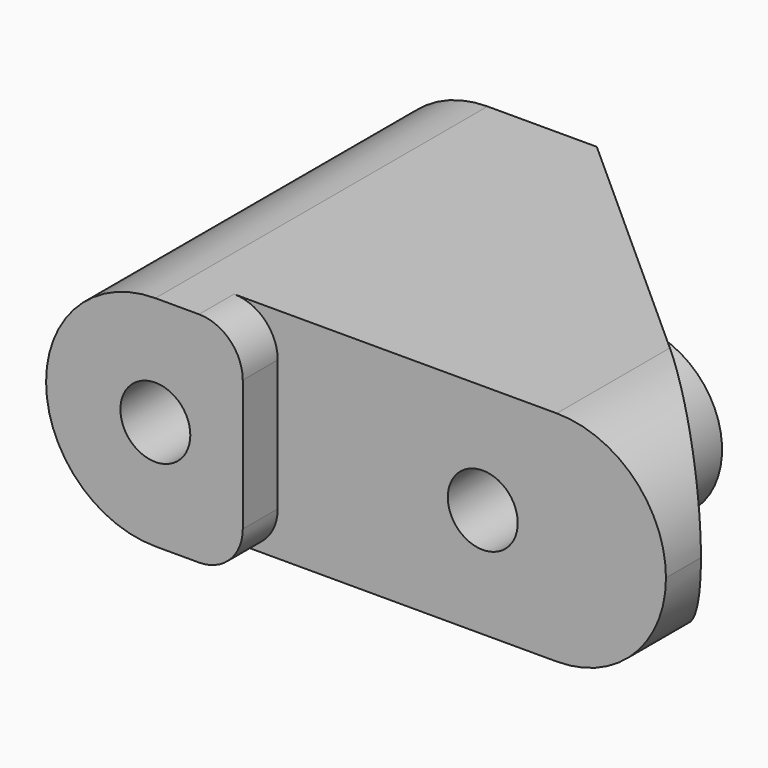
from build123d import *

# Parameters (mm, degrees)
PAD_DEPTH         = 10
SKETCH001_R       = 1.6
POCKET_DEPTH      = 19.001
SKETCH003_R       = 3.75
SKETCH003_R_2     = 1.6
PAD001_DEPTH      = 17
PAD001_FACE15_R   = 3.75
PAD001_FACE15_R_2 = 1.6
POCKET001_DEPTH   = 8
FILLET_R          = 4.999
FILLET_FACE4_W    = 2
FILLET_FACE4_H    = 10
POCKET002_DEPTH   = 1
FILLET001_R       = 2


with BuildPart() as part:
    # Sketch → Pad (new body)
    with BuildSketch(Plane.XY):
        Polygon((-19.5, -1), (-19.5, 18), (-9.5, 18), (7.264706, 3), (7.264706, 1), (-9.5, 1), (-9.5, -1), align=None)
    extrude(amount=PAD_DEPTH)

    # Sketch001 (on Face3 of Pad) → Pocket (cut, through all)
    with BuildSketch(Plane.XZ.offset(1)):
        with Locations((-14.5, 5)):
            Circle(SKETCH001_R)
        with Locations((-1.117647, 5)):
            Circle(SKETCH001_R)
    extrude(amount=-POCKET_DEPTH, mode=Mode.SUBTRACT)

    # Sketch003 (on Face1 of Pocket) → Pad001 (join)
    with BuildSketch(Plane.XZ.offset(-1)):
        with Locations((-1.117647, 5)):
            Circle(SKETCH003_R)
        with Locations((-1.117647, 5)):
            Circle(SKETCH003_R_2, mode=Mode.SUBTRACT)
    extrude(amount=-PAD001_DEPTH)

    # Pad001 Face15 → Pocket001 (cut)
    with BuildSketch(Plane(origin=(-1.117647, 18, 5), x_dir=(1, 0, 0), z_dir=(0, 1, 0))):
        Circle(PAD001_FACE15_R)
        Circle(PAD001_FACE15_R_2, mode=Mode.SUBTRACT)
    extrude(amount=-POCKET001_DEPTH, mode=Mode.SUBTRACT)

    # Fillet
    fillet_edges = [part.edges().sort_by_distance(p)[0] for p in [
        (-19.5, 8.5, 10),
        (-19.5, 8.5, 0),
        (7.264706, 2, 10),
        (7.264706, 2, 0),
    ]]
    fillet(fillet_edges, radius=FILLET_R)

    # Fillet Face4 → Pocket002 (cut)
    with BuildSketch(Plane(origin=(-9.5, 0, 5), x_dir=(0, -1, 0), z_dir=(1, 0, 0))):
        Rectangle(FILLET_FACE4_W, FILLET_FACE4_H)
    extrude(amount=-POCKET002_DEPTH, mode=Mode.SUBTRACT)

    # Fillet001
    fillet001_edges = [part.edges().sort_by_distance(p)[0] for p in [
        (-10.5, 0, 0),
        (-10.5, 0, 10),
    ]]
    fillet(fillet001_edges, radius=FILLET001_R)


solid = part.part
